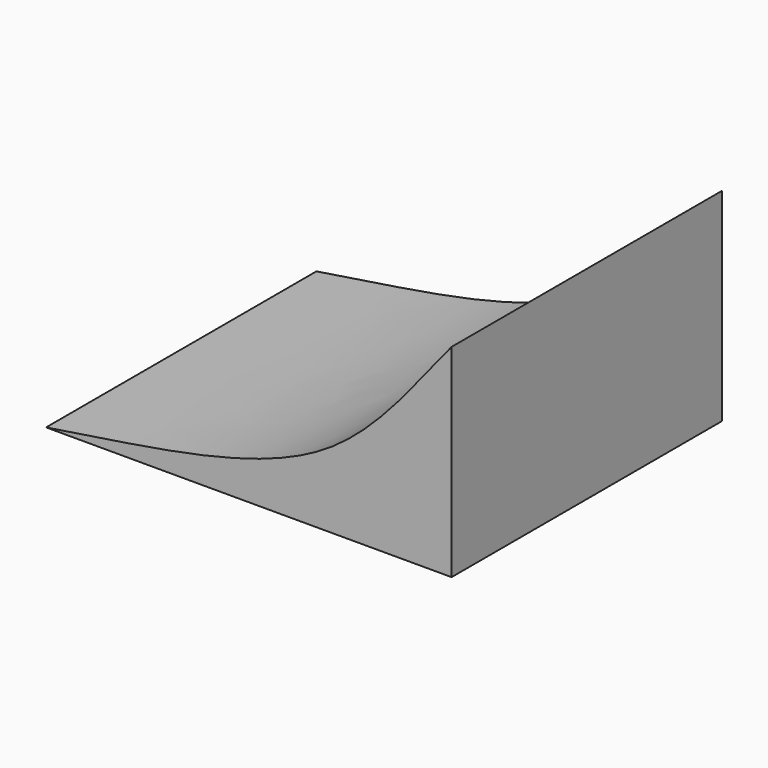
from build123d import *

# Parameters (mm, degrees)
F1_DEPTH = 127


with BuildPart() as f1:
    # F0 (on Front) → F1 (new body)
    with BuildSketch(Plane.XZ):
        with BuildLine():
            Line((-72.0015183954, 0), (0, 0))
            Line((0, 0), (80.3984816046, 0))
            Line((80.3984816046, 0), (80.3984816046, 76.2))
            add(Edge.make_bspline(
                [(-72.0015183954, 0), (-35.3460429096, 5.9112825354), (35.9321424173, 13.1898001876), (65.478964789, 58.5359876876), (80.3984816046, 76.2)],
                knots=[0, 0, 0, 0, 0.5485444005, 1, 1, 1, 1], degree=3))
        make_face()
    extrude(amount=F1_DEPTH)


solid = f1.part
